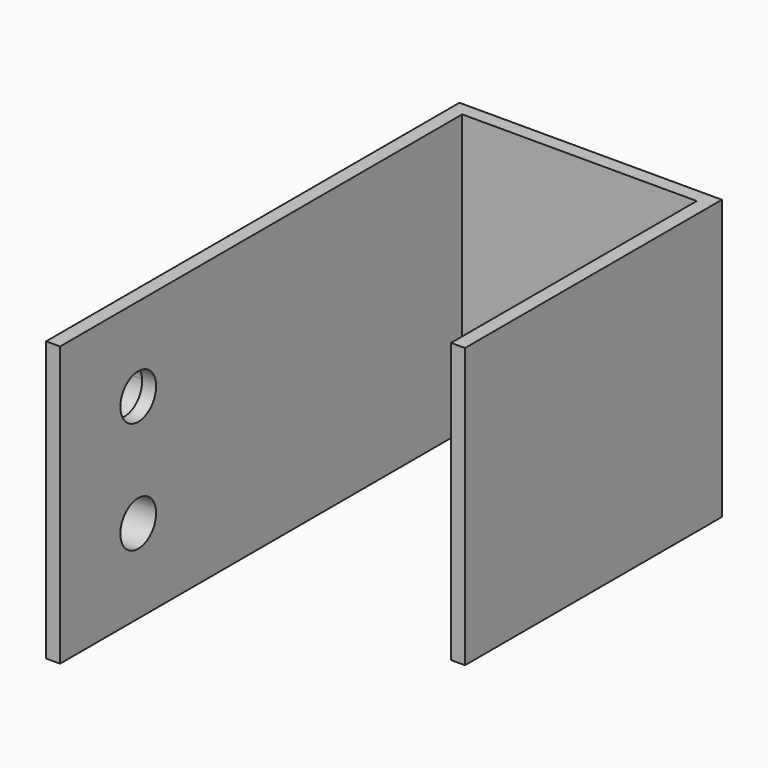
from build123d import *

# Parameters (mm, degrees)
F1_DEPTH = 50
F3_DEPTH = 10
F4_R     = 4
F5_DEPTH = 15


with BuildPart() as f1:
    # F0 (on Top) → F1 (new body)
    with BuildSketch(Plane.XY):
        Polygon((0, 92.5), (0, 0), (2.5, 0), (2.5, 90), (44.5, 90), (44.5, 35), (47, 35), (47, 92.5), align=None)
    extrude(amount=F1_DEPTH)

    # F2 (on face) → F3 (join)
    with BuildSketch(Plane.YZ.offset(2.5)):
        with BuildLine():
            Line((22.68132, 40.430217), (17.5, 41.689106))
            Line((17.5, 41.689106), (17.5, 39.416046))
            ThreePointArc((17.5, 39.416046), (20.622616, 38.122616), (21.916046, 35))
            ThreePointArc((21.916046, 35), (20.622616, 31.877384), (17.5, 30.583954))
            Line((17.5, 30.583954), (17.5, 28.310894))
            Line((17.5, 28.310894), (19.612045, 27.797737))
            Line((19.612045, 27.797737), (24.793366, 33.227953))
            Line((24.793366, 33.227953), (22.68132, 40.430217))
        make_face()
        with BuildLine():
            Line((17.5, 39.416046), (17.5, 41.689106))
            Line((17.5, 41.689106), (15.387955, 42.202263))
            Line((15.387955, 42.202263), (10.206634, 36.772047))
            Line((10.206634, 36.772047), (12.31868, 29.569783))
            Line((12.31868, 29.569783), (17.5, 28.310894))
            Line((17.5, 28.310894), (17.5, 30.583954))
            ThreePointArc((17.5, 30.583954), (13.083954, 35), (17.5, 39.416046))
        make_face()
        with BuildLine():
            ThreePointArc((21.304212, 15), (20.189984, 17.689984), (17.5, 18.804212))
            ThreePointArc((17.5, 18.804212), (14.810016, 12.310016), (21.304212, 15))
        make_face()
        Polygon((21.857131, 21.111362), (17.5, 21.529923), (14.385971, 21.829067), (10.02884, 15.717706), (13.142869, 8.888638), (20.614029, 8.170933), (24.97116, 14.282294), align=None)
        with BuildLine():
            ThreePointArc((21.304212, 15), (14.810016, 12.310016), (17.5, 18.804212))
            ThreePointArc((17.5, 18.804212), (20.189984, 17.689984), (21.304212, 15))
        make_face(mode=Mode.SUBTRACT)
    extrude(amount=-F3_DEPTH)

    # F4 (on face) → F5 (cut)
    with BuildSketch(Plane.YZ.offset(2.5)):
        with Locations((17.5, 35)):
            Circle(F4_R)
        with Locations((17.5, 15)):
            Circle(F4_R)
    extrude(amount=-F5_DEPTH, mode=Mode.SUBTRACT)


solid = f1.part
